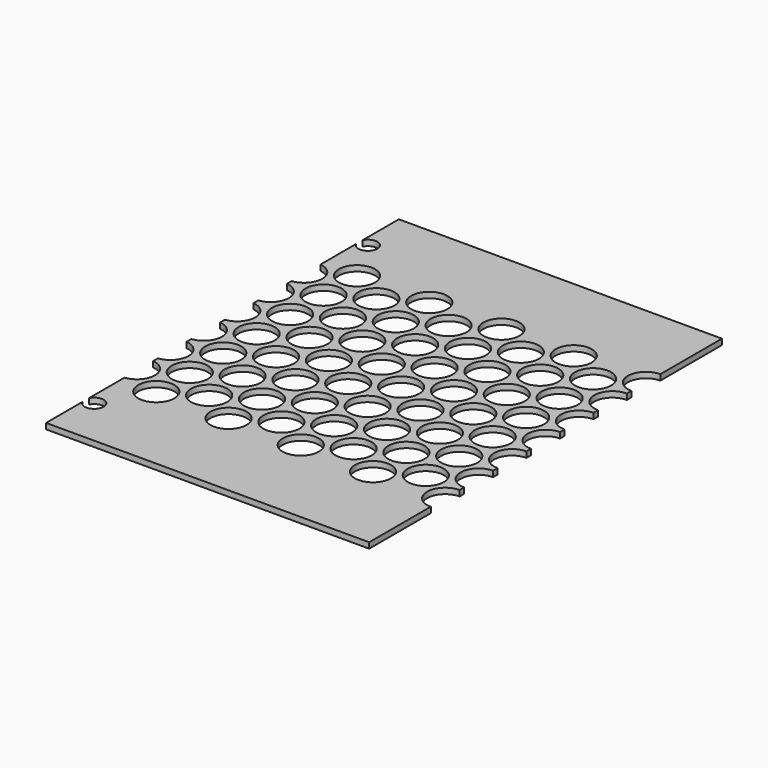
from build123d import *

# Parameters (mm, degrees)
SKETCH086_W     = 445
SKETCH086_H     = 232
PAD026_DEPTH    = 3
SKETCH087_R     = 9.5
POCKET057_DEPTH = 5
FILLET011_R     = 2
POCKET058_DEPTH = 10.001
SKETCH089_R     = 6
SKETCH089_R_2   = 5
POCKET059_DEPTH = 5
POCKET064_DEPTH = 5


with BuildPart() as part:
    # Sketch086 → Pad026 (new body)
    with BuildSketch(Plane.XY):
        Rectangle(SKETCH086_W, SKETCH086_H)
    extrude(amount=PAD026_DEPTH)

    # Sketch087 (on Face6 of Pad026) → Pocket057 (cut)
    with BuildSketch(Plane.XY.offset(3)):
        with Locations((-183, 55)):
            Circle(SKETCH087_R)
        with Locations((-183, 33)):
            Circle(SKETCH087_R)
        with Locations((-183, 11)):
            Circle(SKETCH087_R)
        with Locations((-183, -11)):
            Circle(SKETCH087_R)
        with Locations((-183, -33)):
            Circle(SKETCH087_R)
        with Locations((-183, -55)):
            Circle(SKETCH087_R)
        with Locations((-164, 44)):
            Circle(SKETCH087_R)
        with Locations((-164, 22)):
            Circle(SKETCH087_R)
        with Locations((-164, 0)):
            Circle(SKETCH087_R)
        with Locations((-164, -22)):
            Circle(SKETCH087_R)
        with Locations((-164, -44)):
            Circle(SKETCH087_R)
        with Locations((-145, 55)):
            Circle(SKETCH087_R)
        with Locations((-145, 33)):
            Circle(SKETCH087_R)
        with Locations((-145, 11)):
            Circle(SKETCH087_R)
        with Locations((-145, -11)):
            Circle(SKETCH087_R)
        with Locations((-145, -33)):
            Circle(SKETCH087_R)
        with Locations((-145, -55)):
            Circle(SKETCH087_R)
        with Locations((-126, 44)):
            Circle(SKETCH087_R)
        with Locations((-126, 22)):
            Circle(SKETCH087_R)
        with Locations((-126, 0)):
            Circle(SKETCH087_R)
        with Locations((-126, -22)):
            Circle(SKETCH087_R)
        with Locations((-126, -44)):
            Circle(SKETCH087_R)
        with Locations((-107, 55)):
            Circle(SKETCH087_R)
        with Locations((-107, 33)):
            Circle(SKETCH087_R)
        with Locations((-107, 11)):
            Circle(SKETCH087_R)
        with Locations((-107, -11)):
            Circle(SKETCH087_R)
        with Locations((-107, -33)):
            Circle(SKETCH087_R)
        with Locations((-107, -55)):
            Circle(SKETCH087_R)
        with Locations((-88, -44)):
            Circle(SKETCH087_R)
        with Locations((-88, -22)):
            Circle(SKETCH087_R)
        with Locations((-88, 0)):
            Circle(SKETCH087_R)
        with Locations((-88, 22)):
            Circle(SKETCH087_R)
        with Locations((-88, 44)):
            Circle(SKETCH087_R)
        with Locations((-69, 55)):
            Circle(SKETCH087_R)
        with Locations((-69, 33)):
            Circle(SKETCH087_R)
        with Locations((-69, 11)):
            Circle(SKETCH087_R)
        with Locations((-69, -11)):
            Circle(SKETCH087_R)
        with Locations((-69, -33)):
            Circle(SKETCH087_R)
        with Locations((-50, 44)):
            Circle(SKETCH087_R)
        with Locations((-50, 22)):
            Circle(SKETCH087_R)
        with Locations((-50, 0)):
            Circle(SKETCH087_R)
        with Locations((-50, -22)):
            Circle(SKETCH087_R)
        with Locations((-50, -44)):
            Circle(SKETCH087_R)
        with Locations((-69, -55)):
            Circle(SKETCH087_R)
        with Locations((-31, 55)):
            Circle(SKETCH087_R)
        with Locations((-31, 33)):
            Circle(SKETCH087_R)
        with Locations((-31, 11)):
            Circle(SKETCH087_R)
        with Locations((-31, -11)):
            Circle(SKETCH087_R)
        with Locations((-31, -33)):
            Circle(SKETCH087_R)
        with Locations((-31, -55)):
            Circle(SKETCH087_R)
        with Locations((-12, -44)):
            Circle(SKETCH087_R)
        with Locations((-12, -22)):
            Circle(SKETCH087_R)
        with Locations((-12, 0)):
            Circle(SKETCH087_R)
        with Locations((-12, 22)):
            Circle(SKETCH087_R)
        with Locations((-12, 44)):
            Circle(SKETCH087_R)
        with Locations((7, 55)):
            Circle(SKETCH087_R)
        with Locations((7, 33)):
            Circle(SKETCH087_R)
        with Locations((7, 11)):
            Circle(SKETCH087_R)
        with Locations((7, -11)):
            Circle(SKETCH087_R)
        with Locations((7, -33)):
            Circle(SKETCH087_R)
        with Locations((7, -55)):
            Circle(SKETCH087_R)
        with Locations((26, -44)):
            Circle(SKETCH087_R)
        with Locations((26, -22)):
            Circle(SKETCH087_R)
        with Locations((26, 0)):
            Circle(SKETCH087_R)
        with Locations((26, 22)):
            Circle(SKETCH087_R)
        with Locations((26, 44)):
            Circle(SKETCH087_R)
        with Locations((45, 55)):
            Circle(SKETCH087_R)
        with Locations((45, 33)):
            Circle(SKETCH087_R)
        with Locations((45, 11)):
            Circle(SKETCH087_R)
        with Locations((45, -11)):
            Circle(SKETCH087_R)
        with Locations((64, 0)):
            Circle(SKETCH087_R)
        with Locations((64, 22)):
            Circle(SKETCH087_R)
        with Locations((64, 44)):
            Circle(SKETCH087_R)
        with Locations((45, -33)):
            Circle(SKETCH087_R)
        with Locations((45, -55)):
            Circle(SKETCH087_R)
        with Locations((64, -44)):
            Circle(SKETCH087_R)
        with Locations((64, -22)):
            Circle(SKETCH087_R)
        with Locations((83, 55)):
            Circle(SKETCH087_R)
        with Locations((83, 33)):
            Circle(SKETCH087_R)
        with Locations((83, 11)):
            Circle(SKETCH087_R)
        with Locations((83, -11)):
            Circle(SKETCH087_R)
        with Locations((83, -33)):
            Circle(SKETCH087_R)
        with Locations((83, -55)):
            Circle(SKETCH087_R)
        with Locations((102, 44)):
            Circle(SKETCH087_R)
        with Locations((102, 22)):
            Circle(SKETCH087_R)
        with Locations((102, 0)):
            Circle(SKETCH087_R)
        with Locations((102, -22)):
            Circle(SKETCH087_R)
        with Locations((102, -44)):
            Circle(SKETCH087_R)
        with Locations((121, 55)):
            Circle(SKETCH087_R)
        with Locations((121, 33)):
            Circle(SKETCH087_R)
        with Locations((121, 11)):
            Circle(SKETCH087_R)
        with Locations((121, -11)):
            Circle(SKETCH087_R)
        with Locations((121, -33)):
            Circle(SKETCH087_R)
        with Locations((121, -55)):
            Circle(SKETCH087_R)
        with Locations((140, 44)):
            Circle(SKETCH087_R)
        with Locations((140, 22)):
            Circle(SKETCH087_R)
        with Locations((140, 0)):
            Circle(SKETCH087_R)
        with Locations((140, -22)):
            Circle(SKETCH087_R)
        with Locations((140, -44)):
            Circle(SKETCH087_R)
        with Locations((159, 55)):
            Circle(SKETCH087_R)
        with Locations((159, 33)):
            Circle(SKETCH087_R)
        with Locations((159, 11)):
            Circle(SKETCH087_R)
        with Locations((159, -11)):
            Circle(SKETCH087_R)
        with Locations((159, -33)):
            Circle(SKETCH087_R)
        with Locations((159, -55)):
            Circle(SKETCH087_R)
        with Locations((-164, 66)):
            Circle(SKETCH087_R)
        with Locations((-126, 66)):
            Circle(SKETCH087_R)
        with Locations((-88, 66)):
            Circle(SKETCH087_R)
        with Locations((-50, 66)):
            Circle(SKETCH087_R)
        with Locations((-12, 66)):
            Circle(SKETCH087_R)
        with Locations((26, 66)):
            Circle(SKETCH087_R)
        with Locations((64, 66)):
            Circle(SKETCH087_R)
        with Locations((102, 66)):
            Circle(SKETCH087_R)
        with Locations((140, 66)):
            Circle(SKETCH087_R)
        with Locations((-164, -66)):
            Circle(SKETCH087_R)
        with Locations((-126, -66)):
            Circle(SKETCH087_R)
        with Locations((-88, -66)):
            Circle(SKETCH087_R)
        with Locations((-50, -66)):
            Circle(SKETCH087_R)
        with Locations((-12, -66)):
            Circle(SKETCH087_R)
        with Locations((26, -66)):
            Circle(SKETCH087_R)
        with Locations((64, -66)):
            Circle(SKETCH087_R)
        with Locations((102, -66)):
            Circle(SKETCH087_R)
        with Locations((140, -66)):
            Circle(SKETCH087_R)
        with Locations((178, 66)):
            Circle(SKETCH087_R)
        with Locations((178, 44)):
            Circle(SKETCH087_R)
        with Locations((178, 22)):
            Circle(SKETCH087_R)
        with Locations((178, 0)):
            Circle(SKETCH087_R)
        with Locations((178, -22)):
            Circle(SKETCH087_R)
        with Locations((178, -44)):
            Circle(SKETCH087_R)
        with Locations((178, -66)):
            Circle(SKETCH087_R)
    extrude(amount=-POCKET057_DEPTH, mode=Mode.SUBTRACT)

    # Fillet011
    fillet011_edges = [part.edges().sort_by_distance(p)[0] for p in [
        (-222.5, -116, 1.5),
        (222.5, -116, 1.5),
        (222.5, 116, 1.5),
        (-222.5, 116, 1.5),
    ]]
    fillet(fillet011_edges, radius=FILLET011_R)

    # Sketch088 → Pocket058 (cut, through all)
    with BuildSketch(Plane.XY.offset(10)):
        Polygon((188.873749, -62), (214.664444, -62), (214.664444, 62), (188.873749, 62), (188.873749, 11.724954), (183.462372, 4.250606), (183.462372, -4.752587), (188.873749, -11.972128), align=None)
    extrude(amount=-POCKET058_DEPTH, mode=Mode.SUBTRACT)

    # Sketch089 (on Face2 of Pocket058) → Pocket059 (cut)
    with BuildSketch(Plane(origin=(0, 0, 0), x_dir=(1, 0, 0), z_dir=(0, 0, -1))):
        with Locations((213.5, 50)):
            Circle(SKETCH089_R)
        with Locations((213.5, -50)):
            Circle(SKETCH089_R)
        with Locations((-213.5, 50)):
            Circle(SKETCH089_R)
        with Locations((-213.5, -50)):
            Circle(SKETCH089_R)
        with Locations((-163.5, 90)):
            Circle(SKETCH089_R_2)
        with Locations((-25.5, 90)):
            Circle(SKETCH089_R_2)
        with Locations((163.5, 90)):
            Circle(SKETCH089_R_2)
        with Locations((163.5, -90)):
            Circle(SKETCH089_R_2)
        with Locations((-25.5, -90)):
            Circle(SKETCH089_R_2)
        with Locations((-163.5, -90)):
            Circle(SKETCH089_R_2)
    extrude(amount=-POCKET059_DEPTH, mode=Mode.SUBTRACT)

    # Sketch095 (on Face5 of Pocket059) → Pocket064 (cut)
    with BuildSketch(Plane.XY.offset(3)):
        Polygon((-317.002441, 177.552841), (-30, 177.552841), (-30, -258.20929), (140, -258.20929), (140, 194.405518), (369.744232, 194.405518), (393.819366, -352.102783), (-350.707825, -320.203064), align=None)
    extrude(amount=-POCKET064_DEPTH, mode=Mode.SUBTRACT)


with BuildPart() as part_1:
    # Body022 placement: moved
    add(part.part.moved(Location((0, 0, -3))))


solid = part_1.part
